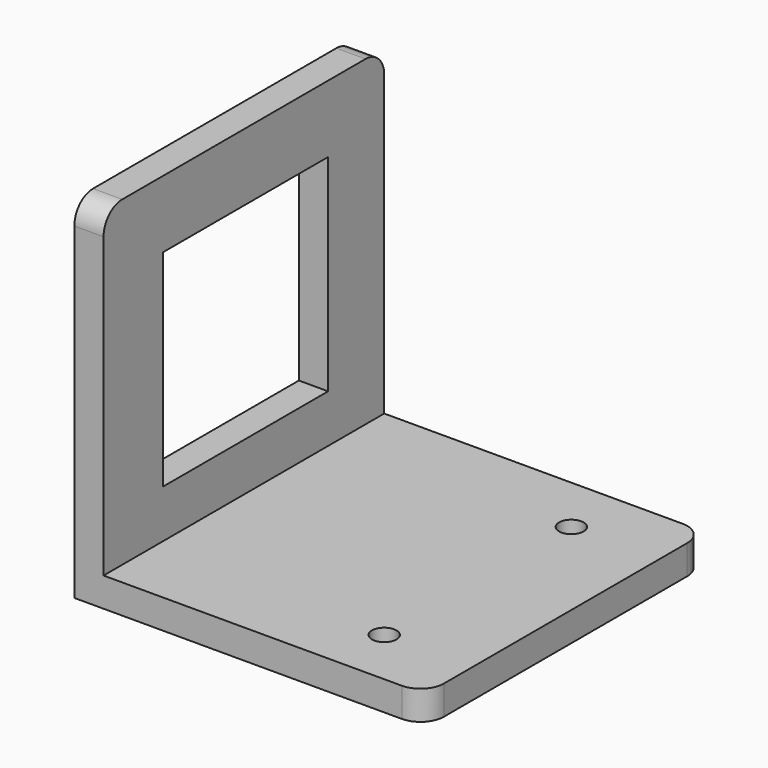
from build123d import *

# Parameters (mm, degrees)
F1_DEPTH = 76.2
F2_W     = 44.8056
F2_H     = 44.8056
F3_DEPTH = 25.4
F5_D     = 5.334
F5_DEPTH = 12.7
F6_R     = 5.08


with BuildPart() as f1:
    # F0 (on Front) → F1 (new body)
    with BuildSketch(Plane.XZ):
        Polygon((0, 76.2), (0, 0), (76.2, 0), (76.2, 6.35), (6.35, 6.35), (6.35, 76.2), align=None)
    extrude(amount=F1_DEPTH)

    # F2 (on face) → F3 (cut)
    with BuildSketch(Plane(origin=(0, 0, 0), x_dir=(0, -1, 0), z_dir=(-1, 0, 0))):
        with Locations((37.6428, 39.1922)):
            Rectangle(F2_W, F2_H)
    extrude(amount=-F3_DEPTH, mode=Mode.SUBTRACT)

    # F5
    with Locations(Plane.XY.offset(6.35)):
        with Locations((57.15, -12.7), (57.15, -63.5)):
            Hole(F5_D / 2, depth=F5_DEPTH)

    # F6
    f6_edges = [f1.edges().sort_by_distance(p)[0] for p in [
        (3.175, 0, 76.2),
        (3.175, -76.2, 76.2),
        (76.2, -76.2, 3.175),
        (76.2, 0, 3.175),
    ]]
    fillet(f6_edges, radius=F6_R)


solid = f1.part
